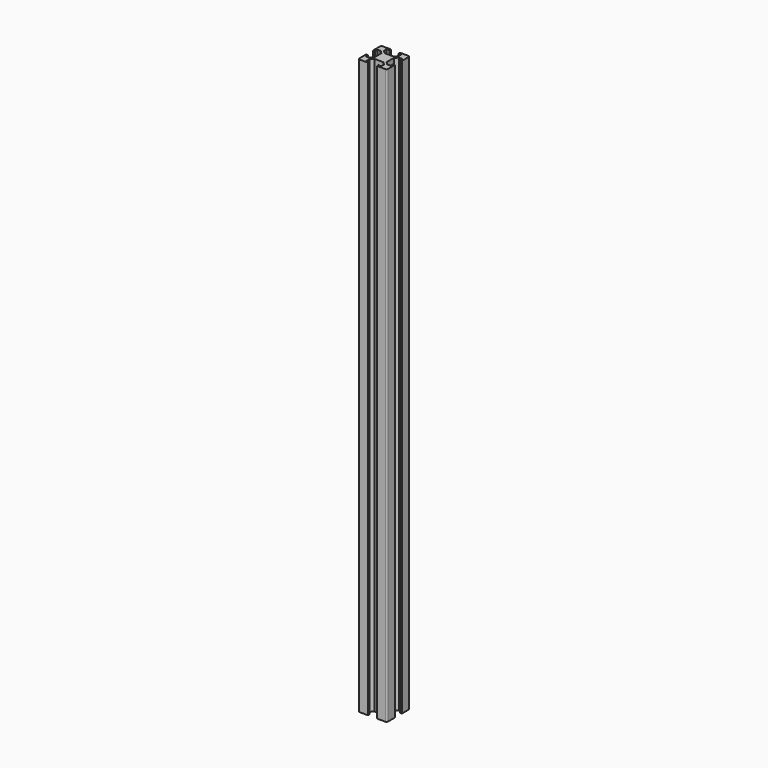
from build123d import *

# Parameters (mm, degrees)
F1_DEPTH = 400


with BuildPart() as f1:
    # F0 (on Top) → F1 (new body)
    with BuildSketch(Plane.XY):
        with BuildLine():
            Line((5.65, 13.1), (5.65, 6.9))
            Line((5.65, 6.9), (3.65, 4.9))
            Line((3.65, 4.9), (1.3, 4.9))
            Line((1.3, 4.9), (1.3, 6.9))
            Line((1.3, 6.9), (0, 6.9))
            Line((0, 6.9), (0, 1))
            ThreePointArc((0, 1), (0.292893, 0.292893), (1, 0))
            Line((1, 0), (6.9, 0))
            Line((6.9, 0), (6.9, 1.3))
            Line((6.9, 1.3), (4.9, 1.3))
            Line((4.9, 1.3), (4.9, 3.65))
            Line((4.9, 3.65), (6.9, 5.65))
            Line((6.9, 5.65), (13.1, 5.65))
            Line((13.1, 5.65), (15.1, 3.65))
            Line((15.1, 3.65), (15.1, 1.3))
            Line((15.1, 1.3), (13.1, 1.3))
            Line((13.1, 1.3), (13.1, 0))
            Line((13.1, 0), (19, 0))
            ThreePointArc((19, 0), (19.707107, 0.292893), (20, 1))
            Line((20, 1), (20, 6.9))
            Line((20, 6.9), (18.7, 6.9))
            Line((18.7, 6.9), (18.7, 4.9))
            Line((18.7, 4.9), (16.35, 4.9))
            Line((16.35, 4.9), (14.35, 6.9))
            Line((14.35, 6.9), (14.35, 13.1))
            Line((14.35, 13.1), (16.35, 15.1))
            Line((16.35, 15.1), (18.7, 15.1))
            Line((18.7, 15.1), (18.7, 13.1))
            Line((18.7, 13.1), (20, 13.1))
            Line((20, 13.1), (20, 19))
            ThreePointArc((20, 19), (19.707107, 19.707107), (19, 20))
            Line((19, 20), (13.1, 20))
            Line((13.1, 20), (13.1, 18.7))
            Line((13.1, 18.7), (15.1, 18.7))
            Line((15.1, 18.7), (15.1, 16.35))
            Line((15.1, 16.35), (13.1, 14.35))
            Line((13.1, 14.35), (6.9, 14.35))
            Line((6.9, 14.35), (4.9, 16.35))
            Line((4.9, 16.35), (4.9, 18.7))
            Line((4.9, 18.7), (6.9, 18.7))
            Line((6.9, 18.7), (6.9, 20))
            Line((6.9, 20), (1, 20))
            ThreePointArc((1, 20), (0.292893, 19.707107), (0, 19))
            Line((0, 19), (0, 13.1))
            Line((0, 13.1), (1.3, 13.1))
            Line((1.3, 13.1), (1.3, 15.1))
            Line((1.3, 15.1), (3.65, 15.1))
            Line((3.65, 15.1), (5.65, 13.1))
        make_face()
    extrude(amount=F1_DEPTH)


solid = f1.part
